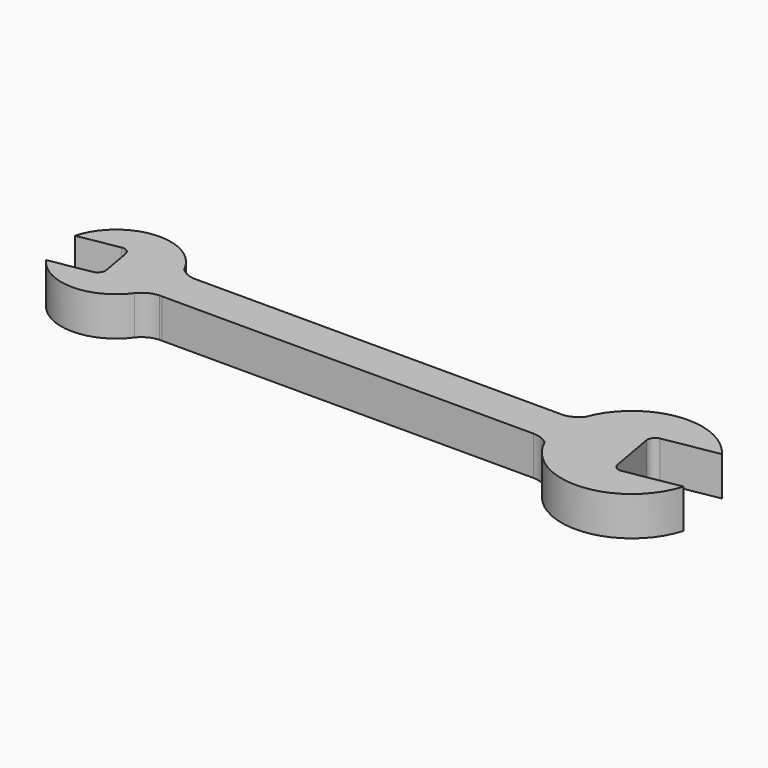
from build123d import *

# Parameters (mm, degrees)
F1_DEPTH = 25


with BuildPart() as f1:
    # F0 (on Top) → F1 (new body)
    with BuildSketch(Plane.XY):
        with BuildLine():
            Line((113.756739, 10.227884), (-123.718999, 10.227884))
            ThreePointArc((-123.718999, 10.227884), (-128.919367, 11.774683), (-133.339702, 14.920641))
            ThreePointArc((-133.339702, 14.920641), (-130.152449, -3.263157), (-136.660185, -20.539107))
            ThreePointArc((-136.660185, -20.539107), (-131.683832, -16.46649), (-125.480655, -14.772116))
            ThreePointArc((-125.480655, -14.772116), (-124.599827, -14.746991), (-123.718999, -14.772116))
            Line((-123.718999, -14.772116), (113.756739, -14.772116))
            ThreePointArc((113.756739, -14.772116), (119.242969, -15.797788), (124.043945, -18.644076))
            ThreePointArc((124.043945, -18.644076), (120.02646, -1.542952), (122.862468, 15.793303))
            ThreePointArc((122.862468, 15.793303), (118.806491, 12.197623), (113.756739, 10.227884))
        make_face()
        with BuildLine():
            ThreePointArc((-136.660185, -20.539107), (-130.152449, -3.263157), (-133.339702, 14.920641))
            ThreePointArc((-133.339702, 14.920641), (-168.006725, 34.870612), (-198.747078, 9.280879))
            Line((-198.747078, 9.280879), (-172.528761, 13.903875))
            ThreePointArc((-172.528761, 13.903875), (-168.792638, 13.075597), (-166.736482, 9.848078))
            Line((-166.736482, 9.848078), (-163.263518, -9.848078))
            ThreePointArc((-163.263518, -9.848078), (-164.091797, -13.584201), (-167.319316, -15.640357))
            Line((-167.319316, -15.640357), (-193.537633, -20.263354))
            ThreePointArc((-193.537633, -20.263354), (-165.169685, -34.999589), (-136.660185, -20.539107))
        make_face()
        with BuildLine():
            ThreePointArc((201.225906, 26.696137), (158.798808, 44.570677), (122.862468, 15.793303))
            ThreePointArc((122.862468, 15.793303), (120.02646, -1.542952), (124.043945, -18.644076))
            ThreePointArc((124.043945, -18.644076), (168.173611, -44.887952), (208.171833, -12.696173))
            Line((208.171833, -12.696173), (173.397002, -18.827914))
            ThreePointArc((173.397002, -18.827914), (169.660879, -17.999636), (167.604723, -14.772116))
            Line((167.604723, -14.772116), (162.395277, 14.772116))
            ThreePointArc((162.395277, 14.772116), (163.223556, 18.508239), (166.451075, 20.564396))
            Line((166.451075, 20.564396), (201.225906, 26.696137))
        make_face()
    extrude(amount=F1_DEPTH)


solid = f1.part
